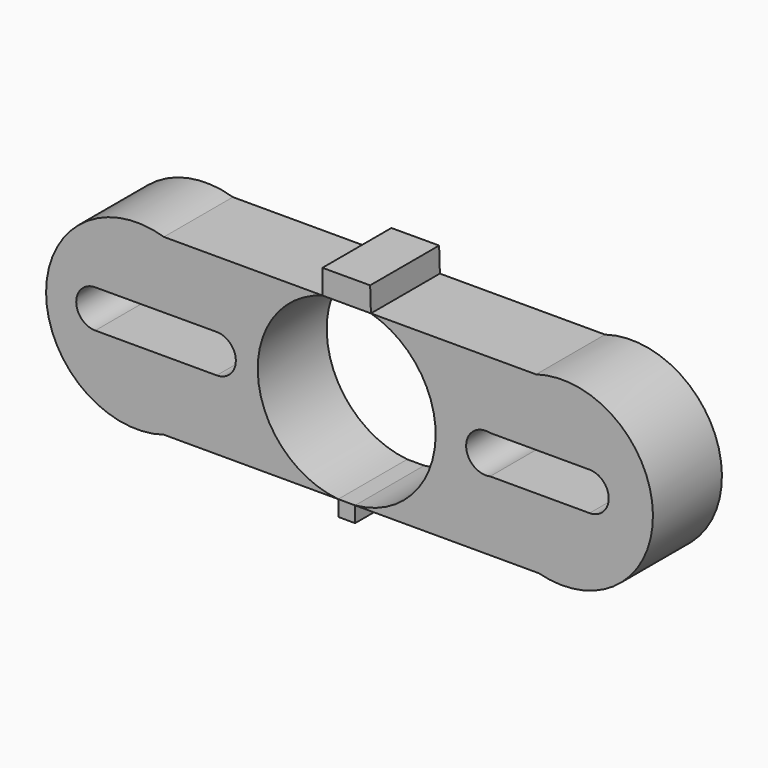
from build123d import *

# Parameters (mm, degrees)
F0_W     = 4.97137
F0_H     = 4.619716
F1_DEPTH = 25.4


with BuildPart() as f1:
    # F0 (on Front) → F1 (new body)
    with BuildSketch(Plane.XZ):
        with BuildLine():
            Line((-32.772339, 30.85096), (-79.487106, 30.85096))
            ThreePointArc((-79.487106, 30.85096), (-114.195804, 5.19856), (-79.487106, -20.45384))
            Line((-79.487106, -20.45384), (-28.122693, -20.45384))
            ThreePointArc((-28.122693, -20.45384), (-51.73656, 3.269179), (-32.772339, 30.85096))
        make_face()
        with BuildLine():
            Line((-99.732715, 11.203608), (-63.951656, 11.269014))
            ThreePointArc((-63.951656, 11.269014), (-58.29654, 5.644826), (-63.931057, 0))
            Line((-63.931057, 0), (-99.712235, 0))
            ThreePointArc((-99.712235, 0), (-105.314049, 5.591583), (-99.732715, 11.203608))
        make_face(mode=Mode.SUBTRACT)
        with BuildLine():
            Line((30.144613, 30.85096), (-18.501677, 30.85096))
            ThreePointArc((-18.501677, 30.85096), (0.462544, 3.269179), (-23.151323, -20.45384))
            Line((-23.151323, -20.45384), (30.998523, -20.45384))
            ThreePointArc((30.998523, -20.45384), (64.586144, 5.764694), (30.144613, 30.85096))
        make_face()
        with BuildLine():
            ThreePointArc((16.621796, 0), (9.556227, 5.634507), (16.621796, 11.269014))
            Line((16.621796, 11.269014), (45.921233, 11.269014))
            ThreePointArc((45.921233, 11.269014), (51.55574, 5.634507), (45.921233, 0))
            Line((45.921233, 0), (16.621796, 0))
        make_face(mode=Mode.SUBTRACT)
        Polygon((-32.785461, 38.029364), (-32.772339, 30.85096), (-18.501677, 30.85096), (-18.725523, 38.055065), align=None)
        with Locations((-25.637008, -22.763698)):
            Rectangle(F0_W, F0_H)
    extrude(amount=F1_DEPTH)


solid = f1.part
